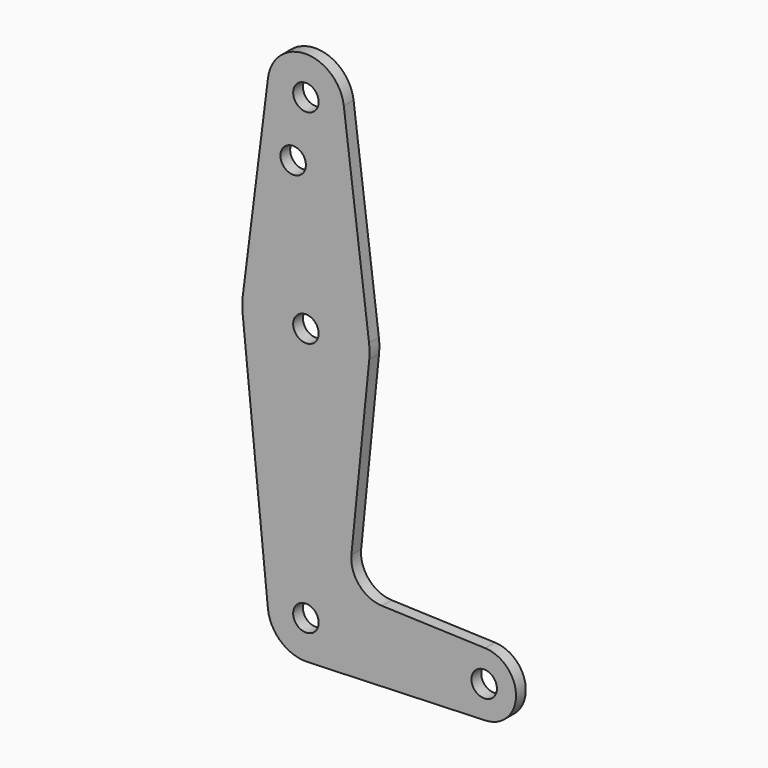
from build123d import *

# Parameters (mm, degrees)
F0_R     = 3.175
F1_DEPTH = 3.048


with BuildPart() as f1:
    # F0 (on Front) → F1 (new body)
    with BuildSketch(Plane.XZ):
        with BuildLine():
            Line((45.628946, 27.900347), (39.328751, 77.906597))
            ThreePointArc((39.328751, 77.906597), (29.878458, 86.240972), (20.428165, 77.906597))
            Line((20.428165, 77.906597), (14.127969, 27.900347))
            ThreePointArc((14.127969, 27.900347), (14.004714, 26.115677), (14.083032, 24.328472))
            Line((14.083032, 24.328472), (20.401202, -38.536528))
            ThreePointArc((20.401202, -38.536528), (23.616074, -44.760948), (30.218636, -47.102951))
            Line((30.218636, -47.102951), (74.61194, -45.516464))
            ThreePointArc((74.61194, -45.516464), (82.265958, -37.584028), (74.61194, -29.651592))
            Line((74.61194, -29.651592), (48.846058, -28.730794))
            ThreePointArc((48.846058, -28.730794), (43.139658, -26.012669), (41.219644, -19.990646))
            Line((41.219644, -19.990646), (45.673883, 24.328472))
            ThreePointArc((45.673883, 24.328472), (45.752202, 26.115677), (45.628946, 27.900347))
        make_face()
        with Locations((29.878458, -37.584028)):
            Circle(F0_R, mode=Mode.SUBTRACT)
        with Locations((74.328458, -37.584028)):
            Circle(F0_R, mode=Mode.SUBTRACT)
        with Locations((29.878458, 25.915972)):
            Circle(F0_R, mode=Mode.SUBTRACT)
        with Locations((26.703458, 61.851468)):
            Circle(F0_R, mode=Mode.SUBTRACT)
        with Locations((29.878458, 76.715972)):
            Circle(F0_R, mode=Mode.SUBTRACT)
    extrude(amount=F1_DEPTH)


solid = f1.part
